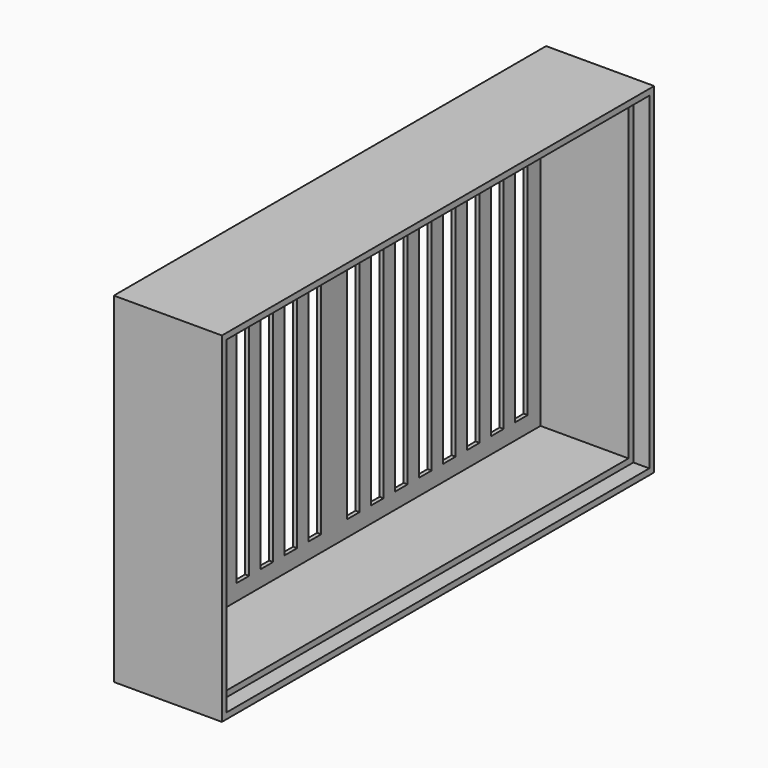
from build123d import *

# Parameters (mm, degrees)
F0_W     = 135
F0_H     = 85
F1_DEPTH = 14
F2_W     = 129
F2_H     = 79
F3_DEPTH = 26
F4_W     = 132
F4_H     = 82
F4_W_2   = 129
F4_H_2   = 79
F5_DEPTH = 3
F6_W     = 4
F6_H     = 71
F7_DEPTH = 25
F8_DEPTH = 1
F9_DEPTH = 1


with BuildPart() as f1:
    # F0 (on Right) → F1 (new body, symmetric)
    with BuildSketch(Plane.YZ):
        Rectangle(F0_W, F0_H)
    extrude(amount=F1_DEPTH, both=True)

    # F2 (on face) → F3 (cut)
    with BuildSketch(Plane.YZ.offset(14)):
        Rectangle(F2_W, F2_H)
    extrude(amount=-F3_DEPTH, mode=Mode.SUBTRACT)

    # F4 (on face) → F5 (cut)
    with BuildSketch(Plane.YZ.offset(14)):
        Rectangle(F4_W, F4_H)
        Rectangle(F4_W_2, F4_H_2, mode=Mode.SUBTRACT)
    extrude(amount=-F5_DEPTH, mode=Mode.SUBTRACT)

    # F6 (on face) → F7 (cut)
    with BuildSketch(Plane(origin=(-14, 0, 0), x_dir=(0, -1, 0), z_dir=(-1, 0, 0))):
        with Locations((-58.5, 0)):
            Rectangle(F6_W, F6_H)
        with Locations((-51, 0)):
            Rectangle(F6_W, F6_H)
        with Locations((-43.5, 0)):
            Rectangle(F6_W, F6_H)
        with Locations((-36, 0)):
            Rectangle(F6_W, F6_H)
        with Locations((-28.5, 0)):
            Rectangle(F6_W, F6_H)
        with Locations((-21, 0)):
            Rectangle(F6_W, F6_H)
        with Locations((-13.5, 0)):
            Rectangle(F6_W, F6_H)
        with Locations((-6, 0)):
            Rectangle(F6_W, F6_H)
        with Locations((43.5, 0)):
            Rectangle(F6_W, F6_H)
        with Locations((21, 0)):
            Rectangle(F6_W, F6_H)
        with Locations((28.5, 0)):
            Rectangle(F6_W, F6_H)
        with Locations((13.5, 0)):
            Rectangle(F6_W, F6_H)
        with Locations((58.5, 0)):
            Rectangle(F6_W, F6_H)
        with Locations((36, 0)):
            Rectangle(F6_W, F6_H)
        with Locations((51, 0)):
            Rectangle(F6_W, F6_H)
        with Locations((6, 0)):
            Rectangle(F6_W, F6_H)
    extrude(amount=-F7_DEPTH, mode=Mode.SUBTRACT)

    # F8 (cut): a face of the model
    f8_faces = [f1.faces().sort_by_distance(p)[0] for p in [
        (-14, 0, 0),
    ]]
    extrude(f8_faces, amount=-F8_DEPTH, mode=Mode.SUBTRACT)

    # F9 (cut): a face of the model
    f9_faces = [f1.faces().sort_by_distance(p)[0] for p in [
        (11, 0, 40.8446037323),
    ]]
    extrude(f9_faces, amount=-F9_DEPTH, mode=Mode.SUBTRACT)


solid = f1.part
